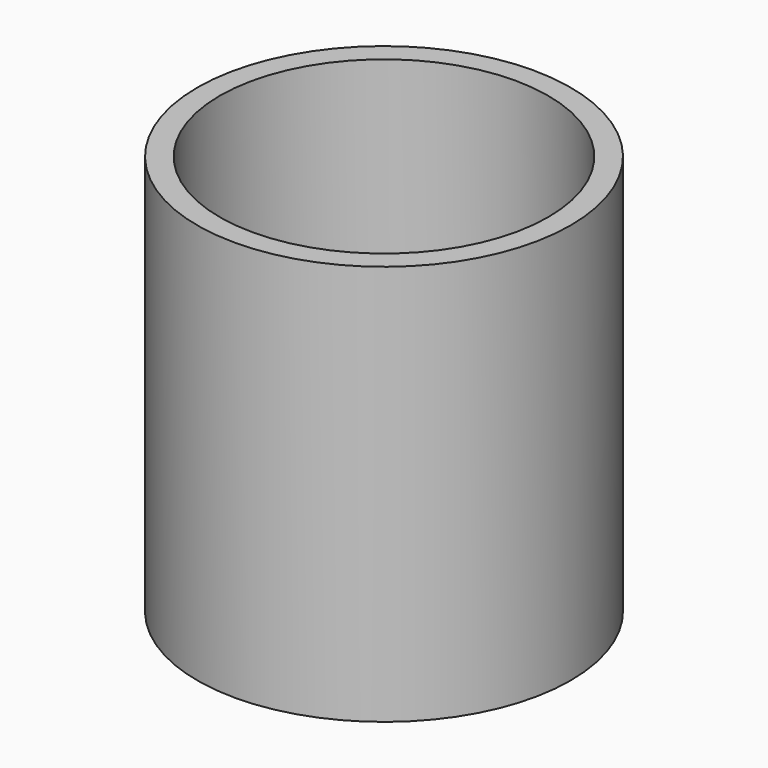
from build123d import *

# Parameters (mm, degrees)
F0_R           = 50.501429
F1_DEPTH       = 108.712
F3_D           = 88.9
F3_CSINK_D     = 101.6
F3_CSINK_ANGLE = 90


with BuildPart() as f1:
    # F0 (on Top) → F1 (new body)
    with BuildSketch(Plane.XY):
        Circle(F0_R)
    extrude(amount=F1_DEPTH)

    # F3 (through all)
    with Locations(Plane(origin=(0, 0, 0), x_dir=(1, 0, 0), z_dir=(0, 0, -1))):
        with Locations((0, 0)):
            CounterSinkHole(F3_D / 2, F3_CSINK_D / 2, counter_sink_angle=F3_CSINK_ANGLE)


solid = f1.part
